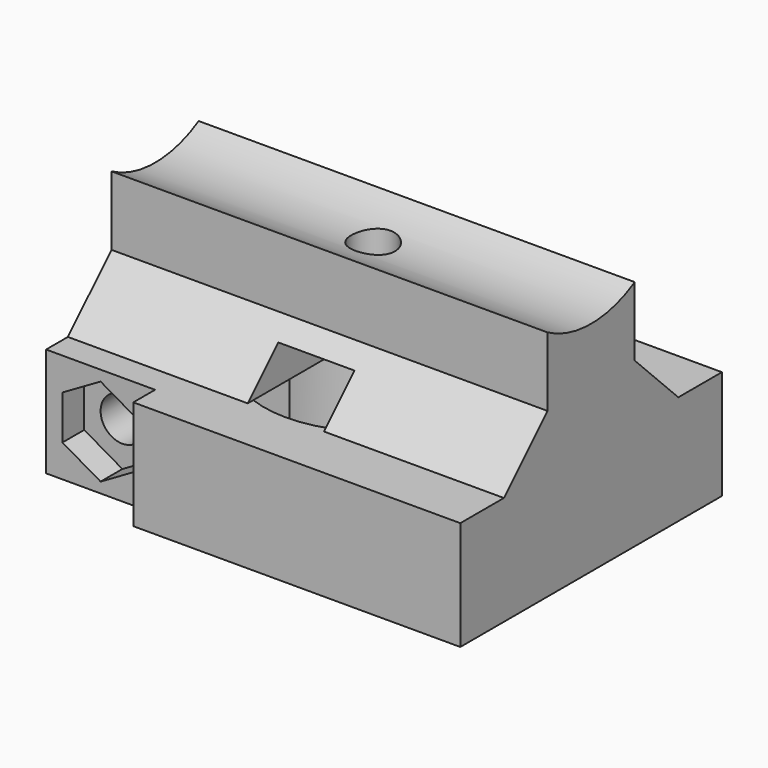
from build123d import *

# Parameters (mm, degrees)
BOX002_W               = 12.5
BOX002_H               = 5
BOX002_DEPTH           = 10
CYLINDER003_R          = 2
CYLINDER003_DEPTH      = 30
CYLINDER003_ROLL_ANGLE = -90
CYLINDER_R             = 2
CYLINDER_DEPTH         = 30
CYLINDER007_R          = 10
CYLINDER007_DEPTH      = 40
BOX008_W               = 10
BOX008_H               = 2.5
BOX008_DEPTH           = 10
BOX009_W               = 10
BOX009_H               = 2.5
BOX009_DEPTH           = 10
PAD_DEPTH              = 2.5
BOX010_W               = 7
BOX010_H               = 20
BOX010_DEPTH           = 3.5
CYLINDER001_R          = 10
CYLINDER001_DEPTH      = 10
PAD001_DEPTH           = 40
BOX007_W               = 40
BOX007_H               = 30
BOX007_DEPTH           = 10
BOX_W                  = 40
BOX_H                  = 10
BOX_DEPTH              = 12


with BuildPart() as screw_gap:
    # Box002 → Box002 (new body)
    with BuildSketch(Plane(origin=(-20, -2.5, -5), x_dir=(1, 0, 0), z_dir=(0, 0, 1))):
        with Locations((6.25, 2.5)):
            Rectangle(BOX002_W, BOX002_H)
    extrude(amount=BOX002_DEPTH)


with BuildPart() as screw:
    # Cylinder003 → Cylinder003 (new body)
    with BuildSketch(Plane.XY):
        Circle(CYLINDER003_R)
    extrude(amount=CYLINDER003_DEPTH)


with BuildPart() as screw_1:
    # Cylinder003 roll: moved
    add(screw.part.rotate(Axis((0, 0, 0), (1, 0, 0)), CYLINDER003_ROLL_ANGLE))


with BuildPart() as screw_2:
    # Cylinder003 placement: moved
    add(screw_1.part.moved(Location((-15, -15, 0))))


with BuildPart() as rail_screw:
    # Cylinder → Cylinder (new body)
    with BuildSketch(Plane.XY.offset(-5)):
        Circle(CYLINDER_R)
    extrude(amount=CYLINDER_DEPTH)


with BuildPart() as rail:
    # Cylinder007 → Cylinder007 (new body)
    with BuildSketch(Plane(origin=(20, 0, 25), x_dir=(0, 1, 0), z_dir=(-1, 0, 0))):
        Circle(CYLINDER007_R)
    extrude(amount=CYLINDER007_DEPTH)


with BuildPart() as screw_gap001:
    # Box008 → Box008 (new body)
    with BuildSketch(Plane(origin=(-20, 12.5, -5), x_dir=(1, 0, 0), z_dir=(0, 0, 1))):
        with Locations((5, 1.25)):
            Rectangle(BOX008_W, BOX008_H)
    extrude(amount=BOX008_DEPTH)


with BuildPart() as screw_gap002:
    # Box009 → Box009 (new body)
    with BuildSketch(Plane(origin=(-20, -15, -5), x_dir=(1, 0, 0), z_dir=(0, 0, 1))):
        with Locations((5, 1.25)):
            Rectangle(BOX009_W, BOX009_H)
    extrude(amount=BOX009_DEPTH)


with BuildPart() as body:
    # Sketch → Pad (new body)
    with BuildSketch(Plane.XZ):
        Polygon((0, -4.041452), (3.5, -2.020726), (3.5, 2.020726), (0, 4.041452), (-3.5, 2.020726), (-3.5, -2.020726), align=None)
    extrude(amount=-PAD_DEPTH)


with BuildPart() as body_1:
    # Body placement: moved
    add(body.part.moved(Location((-15, -12.5, 0))))


with BuildPart() as cube:
    # Box010 → Box010 (new body)
    with BuildSketch(Plane(origin=(-3.5, -10, 5), x_dir=(1, 0, 0), z_dir=(0, 0, 1))):
        with Locations((3.5, 10)):
            Rectangle(BOX010_W, BOX010_H)
    extrude(amount=BOX010_DEPTH)


with BuildPart() as negative_fusion:
    # Cylinder001 → Cylinder001 (new body)
    with BuildSketch(Plane.XY.offset(-5)):
        Circle(CYLINDER001_R)
    extrude(amount=CYLINDER001_DEPTH)

    # Fusion: union Screw Gap, Screw, Rail Screw, Rail, Screw Gap001, Screw Gap002, Body, Cube
    add(screw_gap.part)
    add(screw_2.part)
    add(rail_screw.part)
    add(rail.part)
    add(screw_gap001.part)
    add(screw_gap002.part)
    add(body_1.part)
    add(cube.part)


with BuildPart() as rail_support_prism:
    # Sketch001 → Pad001 (new body)
    with BuildSketch(Plane.YZ):
        Polygon((5, 0), (10, -5), (-10, -5), (-5, 0), align=None)
    extrude(amount=-PAD001_DEPTH)


with BuildPart() as rail_support_prism_1:
    # Body001 placement: moved
    add(rail_support_prism.part.moved(Location((20, 0, 10))))


with BuildPart() as base_cube:
    # Box007 → Box007 (new body)
    with BuildSketch(Plane(origin=(-20, -15, -5), x_dir=(1, 0, 0), z_dir=(0, 0, 1))):
        with Locations((20, 15)):
            Rectangle(BOX007_W, BOX007_H)
    extrude(amount=BOX007_DEPTH)


with BuildPart() as cut:
    # Box → Box (new body)
    with BuildSketch(Plane(origin=(-20, -5, 5), x_dir=(1, 0, 0), z_dir=(0, 0, 1))):
        with Locations((20, 5)):
            Rectangle(BOX_W, BOX_H)
    extrude(amount=BOX_DEPTH)

    # Fusion002: union Rail Support Prism, Base Cube
    add(rail_support_prism_1.part)
    add(base_cube.part)

    # Cut: cut Negative Fusion
    add(negative_fusion.part, mode=Mode.SUBTRACT)


solid = cut.part
